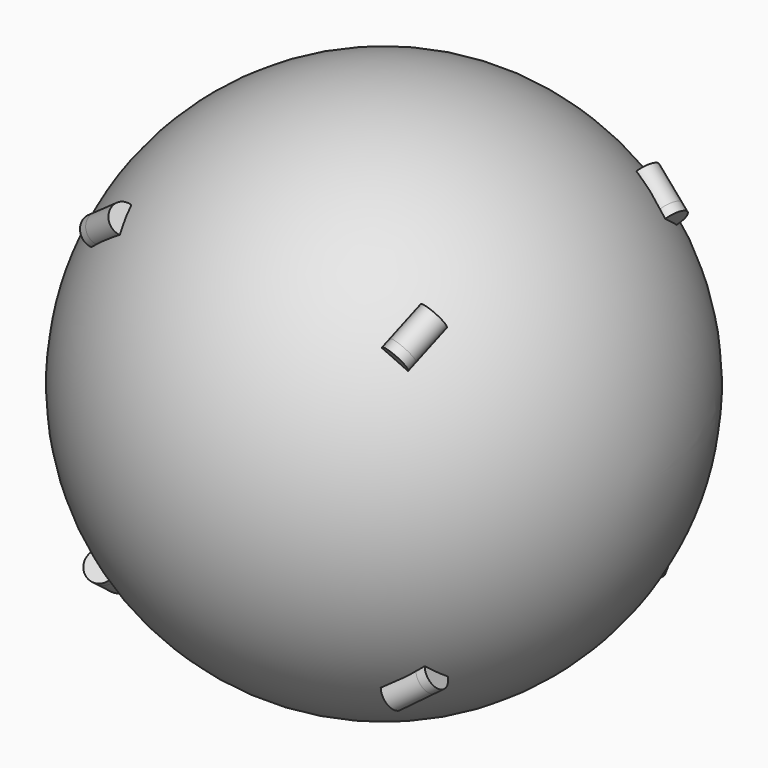
from build123d import *

# Parameters (mm, degrees)
F8_COUNT = 4
F9_COUNT = 2


with BuildPart() as f1:
    # F0 (on Top) → F1 (revolve)
    with BuildSketch(Plane.XY):
        with BuildLine():
            Line((-115, 0), (115, 0))
            ThreePointArc((115, 0), (0, 115), (-115, 0))
        make_face()
    revolve(axis=Axis((0, 0, 0), (-1, 0, 0)))


with BuildPart() as f6:
    # F5 (on line) → F6 (revolve)
    with BuildSketch(Plane(origin=(-66.3952809413, 66.3952809413, 66.3952809879), x_dir=(0.816496581, 0.4082482902, 0.4082482905), z_dir=(-0.5773502691, 0.5773502691, 0.5773502695))):
        Polygon((-2.5881904491, -9.6592582634), (0, 0), (-4.2426406886, 7.3484692275), (-8.3837454071, -8.106343994), align=None)
        Polygon((-4.2426406886, 7.3484692275), (0, 0), (2.5881904491, 9.6592582634), (-3.207364509, 11.2121725329), align=None)
    revolve(axis=Axis((-66.3952809413, 66.3952809413, 66.3952809879), (-0.2113248653, -0.7886751347, 0.5773502691)))


with BuildPart() as f8_1:
    # F8: instance of F6
    add(f6.part.rotate(Axis((0, 0, 49.9084942694), (0, 0, 1)), 1 * 360 / F8_COUNT))


with BuildPart() as f8_2:
    # F8: instance of F6
    add(f6.part.rotate(Axis((0, 0, 49.9084942694), (0, 0, 1)), 2 * 360 / F8_COUNT))


with BuildPart() as f8_3:
    # F8: instance of F6
    add(f6.part.rotate(Axis((0, 0, 49.9084942694), (0, 0, 1)), 3 * 360 / F8_COUNT))


with BuildPart() as f9_1:
    # F9: instance of F8_3
    add(f8_3.part.rotate(Axis((0, 0, 0), (-1, 0, 0)), 1 * 360 / F9_COUNT))


with BuildPart() as f9_2:
    # F9: instance of F6
    add(f6.part.rotate(Axis((0, 0, 0), (-1, 0, 0)), 1 * 360 / F9_COUNT))


with BuildPart() as f9_3:
    # F9: instance of F8_2
    add(f8_2.part.rotate(Axis((0, 0, 0), (-1, 0, 0)), 1 * 360 / F9_COUNT))


with BuildPart() as f9_4:
    # F9: instance of F8_1
    add(f8_1.part.rotate(Axis((0, 0, 0), (-1, 0, 0)), 1 * 360 / F9_COUNT))


solid = Compound([f1.part, f6.part, f8_1.part, f8_2.part, f8_3.part, f9_1.part, f9_2.part, f9_3.part, f9_4.part])
